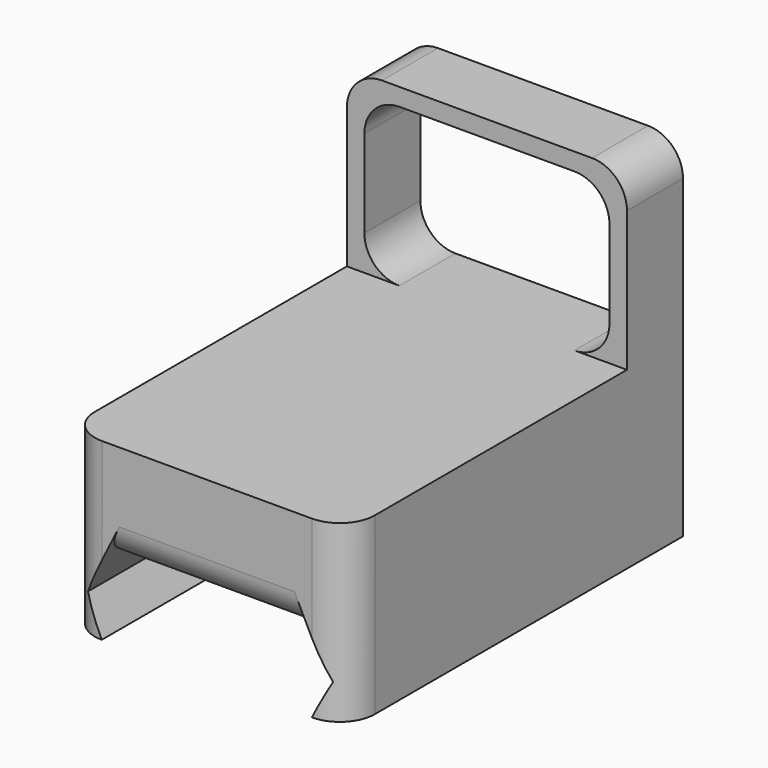
from build123d import *

# Parameters (mm, degrees)
F0_W     = 40
F0_H     = 15
F1_DEPTH = 30
F2_W     = 2.5
F2_H     = 10
F3_DEPTH = 25
F4_W     = 10
F4_H     = 2.5
F5_DEPTH = 35
F6_W     = 5
F6_H     = 60
F7_DEPTH = 10
F9_DEPTH = 60.001
F10_R    = 5


with BuildPart() as f1:
    # F0 (on Front) → F1 (new body, symmetric)
    with BuildSketch(Plane.XZ):
        Rectangle(F0_W, F0_H)
    extrude(amount=F1_DEPTH, both=True)

    # F2 (on face) → F3 (join)
    with BuildSketch(Plane.XY.offset(7.5)):
        with Locations((-18.75, 25)):
            Rectangle(F2_W, F2_H)
        with Locations((18.75, 25)):
            Rectangle(F2_W, F2_H)
    extrude(amount=F3_DEPTH)

    # F4 (on face) → F5 (join, through all)
    with BuildSketch(Plane(origin=(17.5, 0, 0), x_dir=(0, -1, 0), z_dir=(-1, 0, 0))):
        with Locations((-25, 31.25)):
            Rectangle(F4_W, F4_H)
    extrude(amount=F5_DEPTH)

    # F6 (on face) → F7 (join)
    with BuildSketch(Plane(origin=(0, 0, -7.5), x_dir=(1, 0, 0), z_dir=(0, 0, -1))):
        with Locations((-17.5, 0)):
            Rectangle(F6_W, F6_H)
        with Locations((17.5, 0)):
            Rectangle(F6_W, F6_H)
    extrude(amount=F7_DEPTH)

    # F8 (on face) → F9 (cut, through all)
    with BuildSketch(Plane.XZ.offset(30)):
        Polygon((-15, -7.5), (-17.5, -12.5), (-15, -17.5), align=None)
        Polygon((17.5, -12.5), (15, -7.5), (15, -17.5), align=None)
    extrude(amount=-F9_DEPTH, mode=Mode.SUBTRACT)

    # F10
    f10_edges = [f1.edges().sort_by_distance(p)[0] for p in [
        (20, 25, 32.5),
        (-20, 25, 32.5),
        (-17.5, 25, 30),
        (17.5, 25, 30),
        (17.5, 25, 7.5),
        (-17.5, 25, 7.5),
        (20, -30, -5),
        (-20, -30, -5),
        (0, -30, -7.5),
        (0, 30, -7.5),
    ]]
    fillet(f10_edges, radius=F10_R)


solid = f1.part
